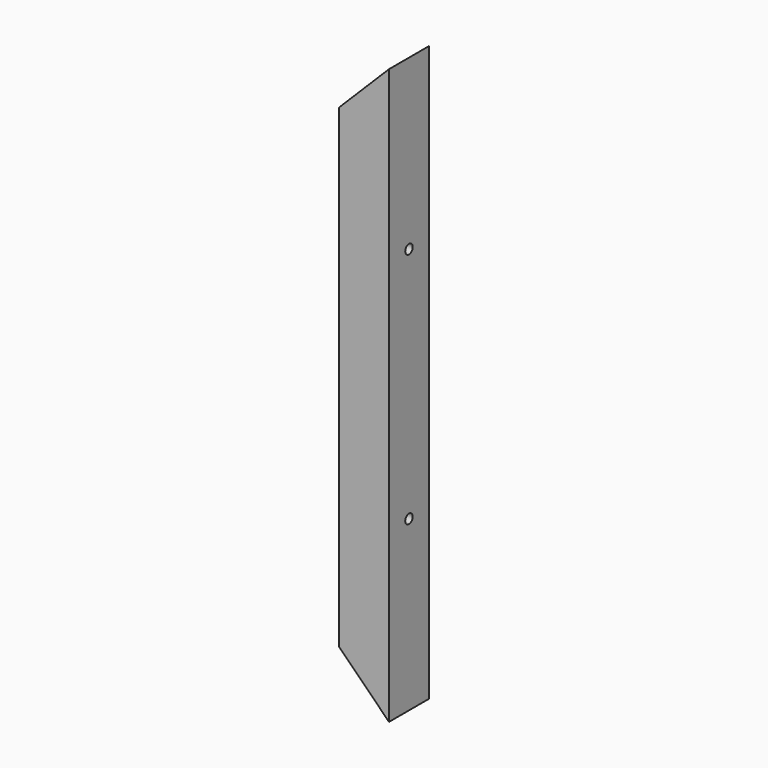
from build123d import *

# Parameters (mm, degrees)
PAD6965_DEPTH            = 146.05
POCKET670_DEPTH          = 25.401
SKETCH7925_R             = 2.38125
POCKET674_DEPTH          = 25.401
BODY6271_PLACEMENT_ANGLE = 90


with BuildPart() as part:
    # Sketch7919 → Pad6965 (new body, symmetric)
    with BuildSketch(Plane.YZ):
        Polygon((0, 0), (0, -25.4), (3.175, -25.4), (3.175, -3.175), (25.4, -3.175), (25.4, 0), align=None)
    extrude(amount=PAD6965_DEPTH, both=True)

    # Sketch7920 → Pocket670 (cut, through all)
    with BuildSketch(Plane.XZ):
        Polygon((-107.95, -38.1), (-146.05, 0), (-146.05, -38.1), align=None)
        Polygon((107.95, -38.1), (146.05, 0), (146.05, -38.1), align=None)
    extrude(amount=-POCKET670_DEPTH, mode=Mode.SUBTRACT)

    # Sketch7925 → Pocket674 (cut, through all)
    with BuildSketch(Plane.XY):
        with Locations((-60.325, 12.7)):
            Circle(SKETCH7925_R)
        with Locations((60.325, 12.7)):
            Circle(SKETCH7925_R)
    extrude(amount=-POCKET674_DEPTH, mode=Mode.SUBTRACT)


with BuildPart() as part_1:
    # Body6271 placement: moved
    add(part.part.moved(Location((152.4, 0, -15.875))).rotate(Axis((152.4, 0, -15.875), (0, 1, 0)), BODY6271_PLACEMENT_ANGLE))


solid = part_1.part
